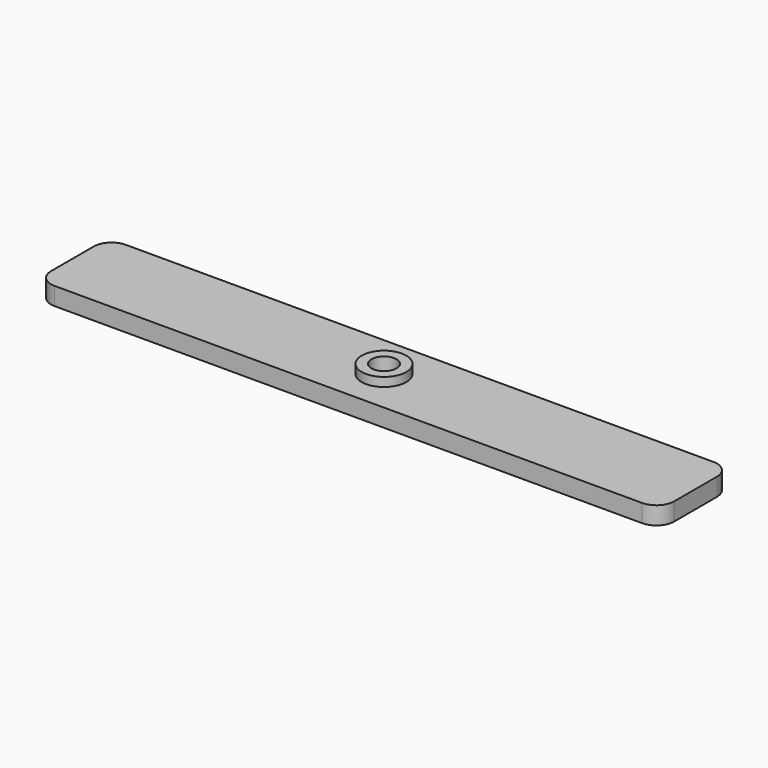
from build123d import *

# Parameters (mm, degrees)
F0_R     = 2.5
F1_DEPTH = 2
F2_R     = 2
F0_R_2   = 1.4
F3_DEPTH = 3


with BuildPart() as f1:
    # F0 (on Top) → F1 (new body)
    with BuildSketch(Plane.XY):
        Polygon((-35, -5), (35, -5), (35, 5), (0, 5), (-35, 5), (-35, 3.662193), align=None)
        Circle(F0_R, mode=Mode.SUBTRACT)
    extrude(amount=F1_DEPTH)

    # F2
    f2_edges = [f1.edges().sort_by_distance(p)[0] for p in [
        (-35, 5, 1),
        (-35, -5, 1),
        (35, -5, 1),
        (35, 5, 1),
    ]]
    fillet(f2_edges, radius=F2_R)

    # F0 (on Top) → F3 (join)
    with BuildSketch(Plane.XY):
        Circle(F0_R)
        Circle(F0_R_2, mode=Mode.SUBTRACT)
    extrude(amount=F3_DEPTH)


solid = f1.part
